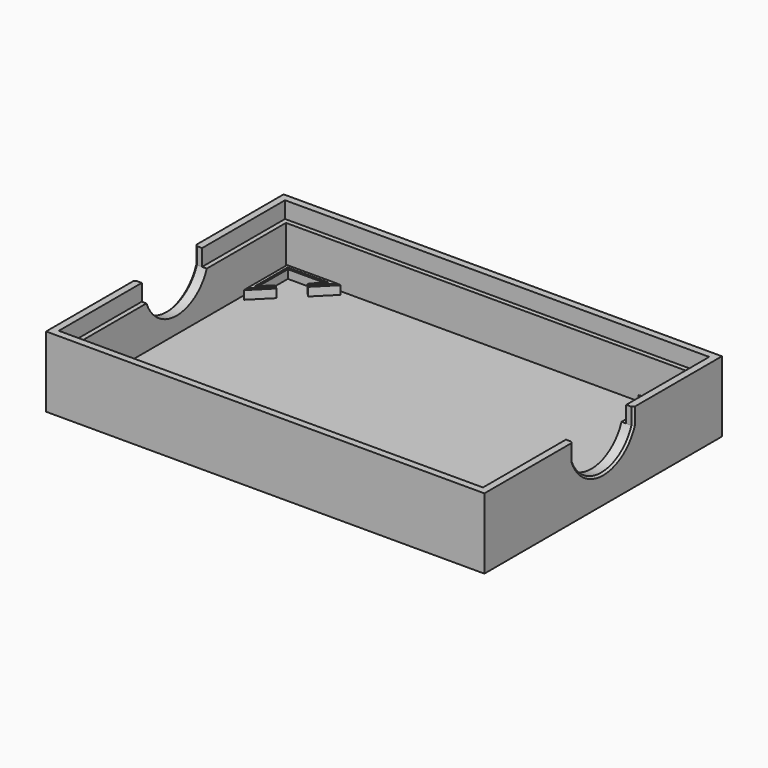
from build123d import *

# Parameters (mm, degrees)
F0_W     = 93
F0_H     = 63
F1_DEPTH = 15
F2_T     = -2.5
F3_W     = 90
F3_H     = 60
F4_DEPTH = 3.5
F6_DEPTH = 2
F7_SIZE  = 0.2
F9_DEPTH = 93.001
F10_SIZE = 0.4


with BuildPart() as f1:
    # F0 (on Top) → F1 (new body)
    with BuildSketch(Plane.XY):
        Rectangle(F0_W, F0_H)
    extrude(amount=-F1_DEPTH)

    # F2
    f2_openings = [f1.faces().sort_by_distance(p)[0] for p in [
        (0, 0, 0),
    ]]
    offset(amount=F2_T, openings=f2_openings)

    # F3 (on Top) → F4 (cut)
    with BuildSketch(Plane.XY):
        Rectangle(F3_W, F3_H)
    extrude(amount=-F4_DEPTH, mode=Mode.SUBTRACT)

    # F5 (on face) → F6 (join)
    with BuildSketch(Plane.XY.offset(-12.5)):
        Polygon((-42, 19), (-42, 27), (-34, 27), (-36.1213203436, 24.8786796564), (-35.4142135624, 24.1715728753), (-31.5857864376, 28), (-43, 28), (-43, 16.5857864376), (-39.1715728753, 20.4142135624), (-39.8786796564, 21.1213203436), align=None)
        Polygon((34, 27), (42, 27), (42, 19), (39.8786796564, 21.1213203436), (39.1715728753, 20.4142135624), (43, 16.5857864376), (43, 28), (31.5857864376, 28), (35.4142135624, 24.1715728753), (36.1213203436, 24.8786796564), align=None)
        Polygon((-43, -16.5857864376), (-43, -28), (-31.5857864376, -28), (-35.4142135624, -24.1715728753), (-36.1213203436, -24.8786796564), (-34, -27), (-42, -27), (-42, -19), (-39.8786796564, -21.1213203436), (-39.1715728753, -20.4142135624), align=None)
        Polygon((31.5857864376, -28), (43, -28), (43, -16.5857864376), (39.1715728753, -20.4142135624), (39.8786796564, -21.1213203436), (42, -19), (42, -27), (34, -27), (36.1213203436, -24.8786796564), (35.4142135624, -24.1715728753), align=None)
    extrude(amount=F6_DEPTH)

    # F7
    f7_edges = [f1.edges().sort_by_distance(p)[0] for p in [
        (-39.525126, 20.767767, -10.5),
        (-40.93934, 20.06066, -10.5),
        (-42, 23, -10.5),
        (-38, 27, -10.5),
        (-35.06066, 25.93934, -10.5),
        (-35.767767, 24.525126, -10.5),
        (-33.5, 26.085786, -10.5),
        (-37.292893, 28, -10.5),
        (-43, 22.292893, -10.5),
        (-41.085786, 18.5, -10.5),
        (35.767767, 24.525126, -10.5),
        (35.06066, 25.93934, -10.5),
        (38, 27, -10.5),
        (42, 23, -10.5),
        (40.93934, 20.06066, -10.5),
        (39.525126, 20.767767, -10.5),
        (41.085786, 18.5, -10.5),
        (43, 22.292893, -10.5),
        (37.292893, 28, -10.5),
        (33.5, 26.085786, -10.5),
        (33.5, -26.085786, -10.5),
        (37.292893, -28, -10.5),
        (43, -22.292893, -10.5),
        (41.085786, -18.5, -10.5),
        (39.525126, -20.767767, -10.5),
        (40.93934, -20.06066, -10.5),
        (42, -23, -10.5),
        (38, -27, -10.5),
        (35.06066, -25.93934, -10.5),
        (35.767767, -24.525126, -10.5),
        (-41.085786, -18.5, -10.5),
        (-43, -22.292893, -10.5),
        (-37.292893, -28, -10.5),
        (-33.5, -26.085786, -10.5),
        (-35.767767, -24.525126, -10.5),
        (-35.06066, -25.93934, -10.5),
        (-38, -27, -10.5),
        (-42, -23, -10.5),
        (-40.93934, -20.06066, -10.5),
        (-39.525126, -20.767767, -10.5),
    ]]
    chamfer(f7_edges, length=F7_SIZE)

    # F8 (on face) → F9 (cut, through all)
    with BuildSketch(Plane.YZ.offset(46.5)):
        with BuildLine():
            Line((-8, 0), (-8, -3.5))
            ThreePointArc((-8, -3.5), (0, -9.0440037453), (8, -3.5))
            Line((8, -3.5), (8, 0))
            Line((8, 0), (0, 0))
            Line((0, 0), (-8, 0))
        make_face()
    extrude(amount=-F9_DEPTH, mode=Mode.SUBTRACT)

    # F10
    f10_edges = [f1.edges().sort_by_distance(p)[0] for p in [
        (46.5, 0, -9.044004),
        (46.5, 8, -1.75),
        (46.5, -8, -1.75),
        (-46.5, 8, -1.75),
        (-46.5, 0, -9.044004),
        (-46.5, -8, -1.75),
    ]]
    chamfer(f10_edges, length=F10_SIZE)


solid = f1.part
